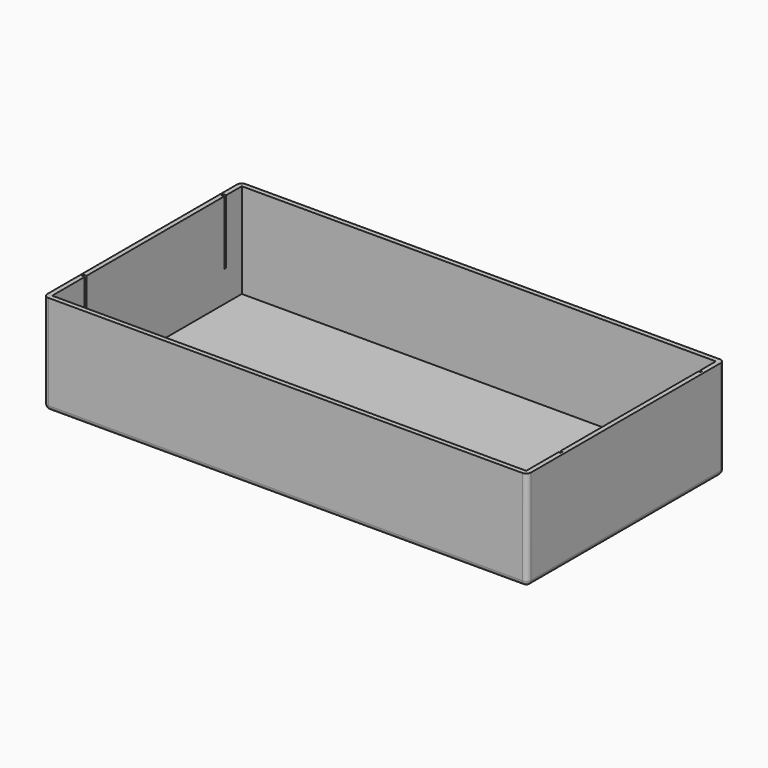
from build123d import *

# Parameters (mm, degrees)
BOX012_W               = 9.5
BOX012_H               = 900
BOX012_DEPTH           = 40
CYLINDER004_R          = 20
CYLINDER004_DEPTH      = 9.5
CYLINDER003_R          = 20
CYLINDER003_DEPTH      = 9.5
FUSION_PITCH_ANGLE     = 90
FUSION_PLACEMENT_ANGLE = -90
BOX011_W               = 1010
BOX011_H               = 5
BOX011_DEPTH           = 200
BOX010_W               = 1010
BOX010_H               = 5
BOX010_DEPTH           = 200
BOX_W                  = 1000
BOX_H                  = 500
BOX_DEPTH              = 200
THICKNESS_T            = 10


with BuildPart() as cube002:
    # Box012 → Box012 (new body)
    with BuildSketch(Plane(origin=(-8, 55, 119), x_dir=(1, 0, 0), z_dir=(0, 0, 1))):
        with Locations((4.75, 450)):
            Rectangle(BOX012_W, BOX012_H)
    extrude(amount=BOX012_DEPTH)


with BuildPart() as cylinder004:
    # Cylinder004 → Cylinder004 (new body)
    with BuildSketch(Plane(origin=(1.5, 955, 139), x_dir=(0, 0, 1), z_dir=(-1, 0, 0))):
        Circle(CYLINDER004_R)
    extrude(amount=CYLINDER004_DEPTH)


with BuildPart() as windows:
    # Cylinder003 → Cylinder003 (new body)
    with BuildSketch(Plane(origin=(1.5, 55, 139), x_dir=(0, 0, 1), z_dir=(-1, 0, 0))):
        Circle(CYLINDER003_R)
    extrude(amount=CYLINDER003_DEPTH)

    # Fusion: union Cube002, Cylinder004
    add(cube002.part)
    add(cylinder004.part)


with BuildPart() as windows_1:
    # Fusion pitch: moved
    add(windows.part.rotate(Axis((0, 0, 0), (0, 1, 0)), FUSION_PITCH_ANGLE))


with BuildPart() as windows_2:
    # Fusion placement: moved
    add(windows_1.part.moved(Location((0, 337.5, -10))).rotate(Axis((0, 337.5, -10), (0, 0, 1)), FUSION_PLACEMENT_ANGLE))


with BuildPart() as supportrail002:
    # Box011 → Box011 (new body)
    with BuildSketch(Plane(origin=(-5.7935, 85.5, 65), x_dir=(1, 0, 0), z_dir=(0, 0, 1))):
        with Locations((505, 2.5)):
            Rectangle(BOX011_W, BOX011_H)
    extrude(amount=BOX011_DEPTH)


with BuildPart() as supportrail001:
    # Box010 → Box010 (new body)
    with BuildSketch(Plane(origin=(-5.7935, 454, 65), x_dir=(1, 0, 0), z_dir=(0, 0, 1))):
        with Locations((505, 2.5)):
            Rectangle(BOX010_W, BOX010_H)
    extrude(amount=BOX010_DEPTH)


with BuildPart() as obj1:
    # Box → Box (new body)
    with BuildSketch(Plane.XY):
        with Locations((500, 250)):
            Rectangle(BOX_W, BOX_H)
    extrude(amount=BOX_DEPTH)

    # Thickness
    thickness_openings = [obj1.faces().sort_by_distance(p)[0] for p in [
        (500, 250, 200),
    ]]
    offset(amount=THICKNESS_T, openings=thickness_openings)

    # Cut: cut SupportRail001
    add(supportrail001.part, mode=Mode.SUBTRACT)

    # Cut001: cut SupportRail002
    add(supportrail002.part, mode=Mode.SUBTRACT)

    # Cut002: cut Windows
    add(windows_2.part, mode=Mode.SUBTRACT)


solid = obj1.part
